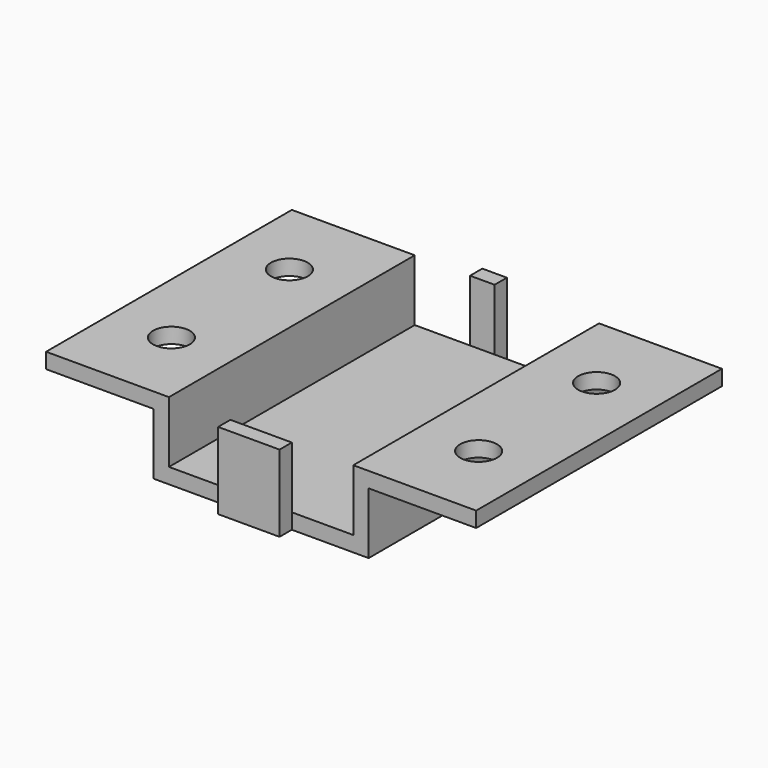
from build123d import *

# Parameters (mm, degrees)
F0_W     = 30
F0_H     = 50
F1_DEPTH = 2.5
F2_W     = 2.5
F2_H     = 50
F3_DEPTH = 10
F4_W     = 20
F4_H     = 50
F4_R     = 3
F5_DEPTH = 2.5
F6_W     = 4
F6_H     = 2.5
F7_DEPTH = 12.5
F8_W     = 10
F8_H     = 2.5
F9_DEPTH = 12.5


with BuildPart() as f1:
    # F0 (on Top) → F1 (new body)
    with BuildSketch(Plane.XY):
        with Locations((0, 0.874573)):
            Rectangle(F0_W, F0_H)
    extrude(amount=F1_DEPTH)

    # F2 (on Top) → F3 (join)
    with BuildSketch(Plane.XY):
        with Locations((16.25, 0.874573)):
            Rectangle(F2_W, F2_H)
        with Locations((-16.25, 0.874573)):
            Rectangle(F2_W, F2_H)
    extrude(amount=F3_DEPTH)

    # F4 (on face) → F5 (join)
    with BuildSketch(Plane.XY.offset(10)):
        with Locations((25, 0.874573)):
            Rectangle(F4_W, F4_H)
        with Locations((25, -11.125427)):
            Circle(F4_R, mode=Mode.SUBTRACT)
        with Locations((25, 12.874573)):
            Circle(F4_R, mode=Mode.SUBTRACT)
        with Locations((-25, 0.874573)):
            Rectangle(F4_W, F4_H)
        with Locations((-25, -11.125427)):
            Circle(F4_R, mode=Mode.SUBTRACT)
        with Locations((-25, 12.874573)):
            Circle(F4_R, mode=Mode.SUBTRACT)
    extrude(amount=F5_DEPTH)

    # F6 (on Top) → F7 (join, through all)
    with BuildSketch(Plane.XY):
        with Locations((-4, 27.124573)):
            Rectangle(F6_W, F6_H)
    extrude(amount=F7_DEPTH)

    # F8 (on Top) → F9 (join, through all)
    with BuildSketch(Plane.XY):
        with Locations((0, -25.375427)):
            Rectangle(F8_W, F8_H)
    extrude(amount=F9_DEPTH)


solid = f1.part
